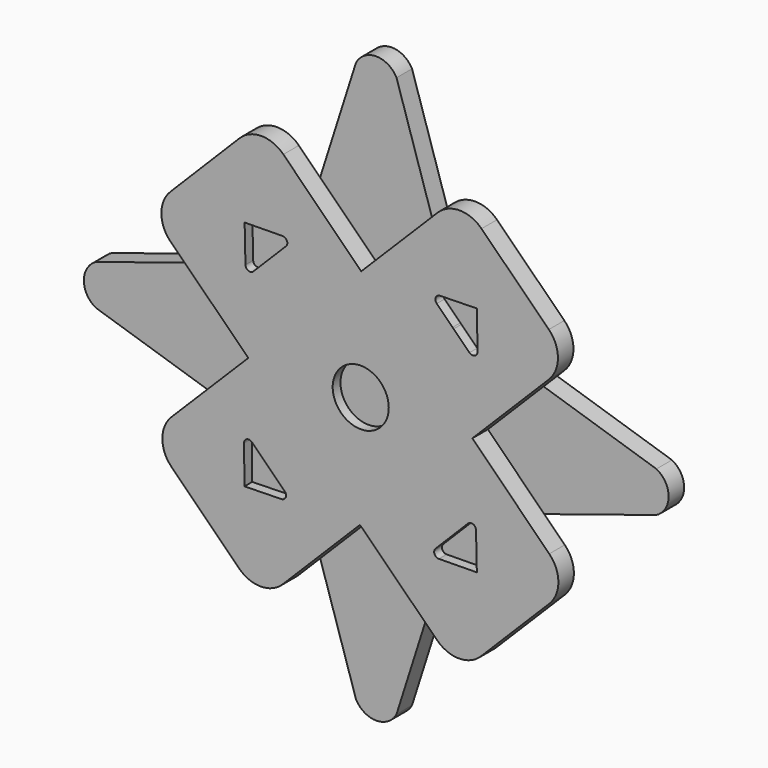
from build123d import *

# Parameters (mm, degrees)
F1_DEPTH = 5
F3_DEPTH = 5
F5_START = 2.5
F5_DEPTH = 8.5
F7_START = 2.5
F6_R     = 7.2310724283
F7_DEPTH = 8.5


with BuildPart() as f1:
    # F0 (on Front) → F1 (new body)
    with BuildSketch(Plane.XZ):
        with BuildLine():
            Line((21.4131670789, 21.4131670789), (5.2280047051, 72.2534335794))
            ThreePointArc((5.2280047051, 72.2534335794), (0, 75.4045450825), (-5.2280047051, 72.2534335794))
            Line((-5.2280047051, 72.2534335794), (-21.4131670789, 21.4131670789))
            Line((-21.4131670789, 21.4131670789), (-72.2534335794, 5.2280047051))
            ThreePointArc((-72.2534335794, 5.2280047051), (-75.4045450825, 0), (-72.2534335794, -5.2280047051))
            Line((-72.2534335794, -5.2280047051), (-21.4131670789, -21.4131670789))
            Line((-21.4131670789, -21.4131670789), (-5.2280047051, -72.2534335794))
            ThreePointArc((-5.2280047051, -72.2534335794), (0, -75.4045450825), (5.2280047051, -72.2534335794))
            Line((5.2280047051, -72.2534335794), (21.4131670789, -21.4131670789))
            Line((21.4131670789, -21.4131670789), (72.2534335794, -5.2280047051))
            ThreePointArc((72.2534335794, -5.2280047051), (75.4045450825, 0), (72.2534335794, 5.2280047051))
            Line((72.2534335794, 5.2280047051), (21.4131670789, 21.4131670789))
        make_face()
    extrude(amount=-F1_DEPTH)


with BuildPart() as f3:
    # F2 (on Front) → F3 (new body)
    with BuildSketch(Plane.XZ):
        with BuildLine():
            Line((-31.277699336, 48.6629582628), (-49.090822423, 30.737120276))
            ThreePointArc((-49.090822423, 30.737120276), (-51.4160960352, 25.0672655385), (-49.0471358303, 19.4155244207))
            Line((-49.0471358303, 19.4155244207), (-28.9843474062, -0.4649805087))
            Line((-28.9843474062, -0.4649805087), (0.1201800308, 28.6688587734))
            Line((0.1201800308, 28.6688587734), (-19.9538588542, 48.6884972941))
            ThreePointArc((-19.9538588542, 48.6884972941), (-25.6210751239, 51.0239525147), (-31.277699336, 48.6629582628))
        make_face()
        Polygon((0.1201800308, 28.6688587734), (-28.9843474062, -0.4649805087), (-0.2002107731, -28.9875945206), (28.7876704154, 0.0790568862), align=None)
        with BuildLine():
            Line((-0.2002107731, -28.9875945206), (-28.9843474062, -0.4649805087))
            Line((-28.9843474062, -0.4649805087), (-48.8237758072, -20.3243896585))
            ThreePointArc((-48.8237758072, -20.3243896585), (-51.1640716736, -25.985836605), (-48.8132487851, -31.6429204843))
            Line((-48.8132487851, -31.6429204843), (-31.4329527263, -48.9761161842))
            ThreePointArc((-31.4329527263, -48.9761161842), (-25.7729244329, -51.311584387), (-20.1192546415, -48.9607654024))
            Line((-20.1192546415, -48.9607654024), (-0.2002107731, -28.9875945206))
        make_face()
        with BuildLine():
            Line((19.8494466376, 48.4179951825), (0.1201800308, 28.6688587734))
            Line((0.1201800308, 28.6688587734), (28.7876704154, 0.0790568862))
            Line((28.7876704154, 0.0790568862), (48.5262871236, 19.8713103241))
            ThreePointArc((48.5262871236, 19.8713103241), (50.8617423442, 25.5385265938), (48.5007480923, 31.1951508059))
            Line((48.5007480923, 31.1951508059), (31.1481327132, 48.4386556204))
            ThreePointArc((31.1481327132, 48.4386556204), (25.494518776, 50.7639754154), (19.8494466376, 48.4179951825))
        make_face()
        with BuildLine():
            Line((28.7876704154, 0.0790568862), (-0.2002107731, -28.9875945206))
            Line((-0.2002107731, -28.9875945206), (19.7109541182, -48.7178535157))
            ThreePointArc((19.7109541182, -48.7178535157), (25.365615745, -51.0352080118), (31.0064587891, -48.6844167139))
            Line((31.0064587891, -48.6844167139), (48.6325484943, -31.0104307543))
            ThreePointArc((48.6325484943, -31.0104307543), (50.968016697, -25.3504024609), (48.6171977124, -19.6967326695))
            Line((48.6171977124, -19.6967326695), (28.7876704154, 0.0790568862))
        make_face()
    extrude(amount=F3_DEPTH)

    # F4 (on face) → F5 (cut)
    with BuildSketch(Plane.XZ.offset(F5_START)):
        with BuildLine():
            Line((23.9573915824, 23.3561819747), (28.0515903028, 19.2837442446))
            ThreePointArc((28.0515903028, 19.2837442446), (29.3652228471, 19.0292852531), (30.0977672028, 20.1489988801))
            Line((30.0977672028, 20.1489988801), (29.9796951878, 29.9410294803))
            Line((29.9796951878, 29.9410294803), (20.4294664941, 29.7314289244))
            ThreePointArc((20.4294664941, 29.7314289244), (19.3415750826, 28.9772624843), (19.6095326382, 27.6809317043))
            Line((19.6095326382, 27.6809317043), (23.692213428, 23.6199506861))
            Line((23.692213428, 23.6199506861), (23.9573915824, 23.3561819747))
        make_face()
        with BuildLine():
            Line((-23.6199506861, 23.692213428), (-23.3561819747, 23.9573915824))
            Line((-23.3561819747, 23.9573915824), (-19.2837442446, 28.0515903028))
            ThreePointArc((-19.2837442446, 28.0515903028), (-19.0292852531, 29.3652228471), (-20.1489988801, 30.0977672028))
            Line((-20.1489988801, 30.0977672028), (-29.9410294803, 29.9796951878))
            Line((-29.9410294803, 29.9796951878), (-29.7314289244, 20.4294664941))
            ThreePointArc((-29.7314289244, 20.4294664941), (-28.9772624843, 19.3415750826), (-27.6809317043, 19.6095326382))
            Line((-27.6809317043, 19.6095326382), (-23.6199506861, 23.692213428))
        make_face()
        with BuildLine():
            Line((-23.692213428, -23.6199506861), (-23.9573915824, -23.3561819747))
            Line((-23.9573915824, -23.3561819747), (-28.0515903028, -19.2837442446))
            ThreePointArc((-28.0515903028, -19.2837442446), (-29.3652228471, -19.0292852531), (-30.0977672028, -20.1489988801))
            Line((-30.0977672028, -20.1489988801), (-29.9796951878, -29.9410294803))
            Line((-29.9796951878, -29.9410294803), (-20.4294664941, -29.7314289244))
            ThreePointArc((-20.4294664941, -29.7314289244), (-19.3415750826, -28.9772624843), (-19.6095326382, -27.6809317043))
            Line((-19.6095326382, -27.6809317043), (-23.692213428, -23.6199506861))
        make_face()
        with BuildLine():
            Line((23.6199506861, -23.692213428), (23.3561819747, -23.9573915824))
            Line((23.3561819747, -23.9573915824), (19.2837442446, -28.0515903028))
            ThreePointArc((19.2837442446, -28.0515903028), (19.0292852531, -29.3652228471), (20.1489988801, -30.0977672028))
            Line((20.1489988801, -30.0977672028), (29.9410294803, -29.9796951878))
            Line((29.9410294803, -29.9796951878), (29.7314289244, -20.4294664941))
            ThreePointArc((29.7314289244, -20.4294664941), (28.9772624843, -19.3415750826), (27.6809317043, -19.6095326382))
            Line((27.6809317043, -19.6095326382), (23.6199506861, -23.692213428))
        make_face()
    extrude(amount=F5_DEPTH, mode=Mode.SUBTRACT)

    # F6 (on Front) → F7 (cut)
    with BuildSketch(Plane.XZ.offset(F7_START)):
        Circle(F6_R)
    extrude(amount=F7_DEPTH, mode=Mode.SUBTRACT)


solid = Compound([f1.part, f3.part])
